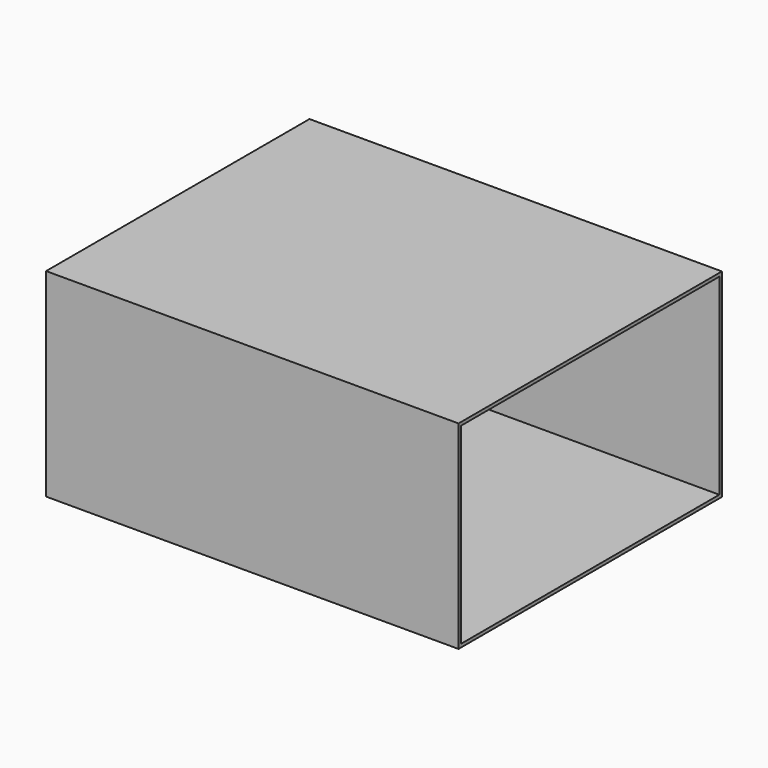
from build123d import *

# Parameters (mm, degrees)
F0_W     = 118.9471073449
F0_H     = 24.972319603
F2_W     = 255.0741881132
F2_H     = 153.8173779845
F3_DEPTH = 213.868
F4_DEPTH = 105.664
F5_T     = -2.54


with BuildPart() as f1:
    # F0 (on Top) → F1 (revolve)
    with BuildSketch(Plane.XY):
        with Locations((1.3143327087, 25.1366123557)):
            Rectangle(F0_W, F0_H)
    revolve(axis=Axis((7.0028230548, 0, 0), (-1, 0, 0)))

    # F2 (on Right) → F3 (join)
    with BuildSketch(Plane.YZ):
        with Locations((-7.0527419448, -3.2536052167)):
            Rectangle(F2_W, F2_H)
    extrude(amount=F3_DEPTH)

    # F4 (add): a face of the model
    f4_faces = [f1.faces().sort_by_distance(p)[0] for p in [
        (0, 117.50571774, -3.2536052167),
    ]]
    extrude(f4_faces, amount=F4_DEPTH)

    # F5
    f5_openings = [f1.faces().sort_by_distance(p)[0] for p in [
        (213.868, -7.052742, -3.253605),
    ]]
    offset(amount=F5_T, openings=f5_openings, kind=Kind.INTERSECTION)


solid = f1.part
